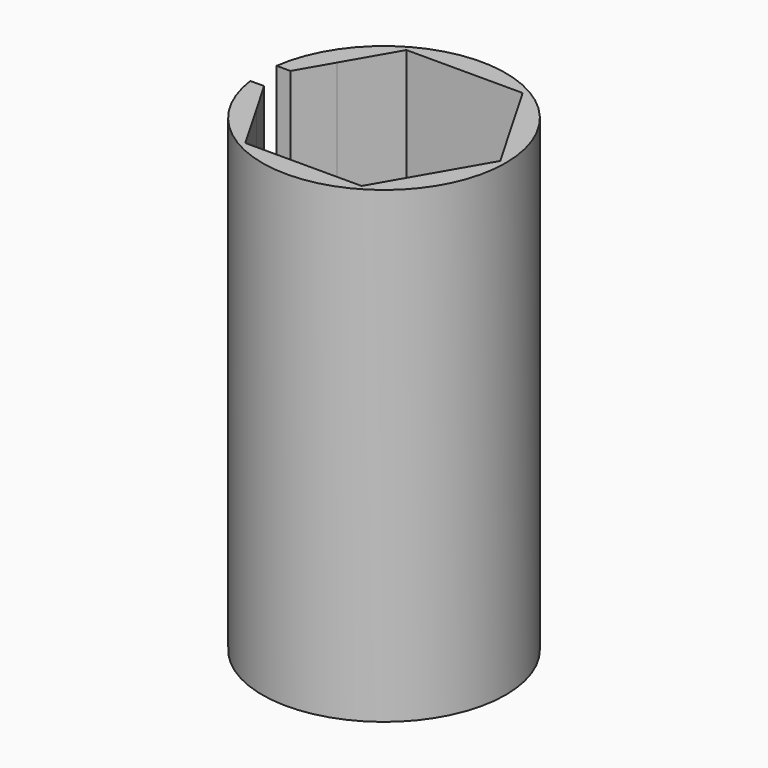
from build123d import *

# Parameters (mm, degrees)
F0_R     = 13
F1_DEPTH = 50
F2_DEPTH = 2
F4_DEPTH = 30
F3_W     = 3.5
F3_H     = 40
F5_DEPTH = 25


with BuildPart() as f1:
    # F0 (on Top) → F1 (new body)
    with BuildSketch(Plane.XY):
        Circle(F0_R)
        Polygon((6.2065153938, 10.75), (9.3097731741, 5.3749998556), (12.4130307876, 0), (9.3097730463, -5.3750000769), (6.2065153938, -10.75), (0, -10.75), (-6.2065153938, -10.75), (-9.3097732188, -5.374999778), (-12.4130307876, 0), (-9.3097730642, 5.3750000458), (-6.2065153938, 10.75), (0, 10.75), align=None, mode=Mode.SUBTRACT)
    extrude(amount=F1_DEPTH)

    # F0 (on Top) → F2 (join)
    with BuildSketch(Plane.XY):
        with BuildLine():
            Line((6.2065153938, -10.75), (9.3097730463, -5.3750000769))
            ThreePointArc((9.3097730463, -5.3750000769), (5.3749999615, -9.3097731129), (0, -10.75))
            Line((0, -10.75), (6.2065153938, -10.75))
        make_face()
        with BuildLine():
            Line((-6.2065153938, -10.75), (0, -10.75))
            ThreePointArc((0, -10.75), (-5.375000111, -9.3097730266), (-9.3097732188, -5.374999778))
            Line((-9.3097732188, -5.374999778), (-6.2065153938, -10.75))
        make_face()
        with BuildLine():
            ThreePointArc((9.3097730463, -5.3750000769), (10.3837026211, -2.7823047777), (10.75, 0))
            ThreePointArc((10.75, 0), (10.3837026542, 2.7823046543), (9.3097731741, 5.3749998556))
            ThreePointArc((9.3097731741, 5.3749998556), (5.3750000722, 9.309773049), (0, 10.75))
            ThreePointArc((0, 10.75), (-5.3749999771, 9.3097731039), (-9.3097730642, 5.3750000458))
            ThreePointArc((-9.3097730642, 5.3750000458), (-10.75, 1.546e-07), (-9.3097732188, -5.374999778))
            ThreePointArc((-9.3097732188, -5.374999778), (-5.375000111, -9.3097730266), (0, -10.75))
            ThreePointArc((0, -10.75), (5.3749999615, -9.3097731129), (9.3097730463, -5.3750000769))
        make_face()
        with BuildLine():
            ThreePointArc((-9.3097730642, 5.3750000458), (-5.3749999771, 9.3097731039), (0, 10.75))
            Line((0, 10.75), (-6.2065153938, 10.75))
            Line((-6.2065153938, 10.75), (-9.3097730642, 5.3750000458))
        make_face()
        with BuildLine():
            ThreePointArc((-9.3097732188, -5.374999778), (-10.75, 1.546e-07), (-9.3097730642, 5.3750000458))
            Line((-9.3097730642, 5.3750000458), (-12.4130307876, 0))
            Line((-12.4130307876, 0), (-9.3097732188, -5.374999778))
        make_face()
        with BuildLine():
            ThreePointArc((0, 10.75), (5.3750000722, 9.309773049), (9.3097731741, 5.3749998556))
            Line((9.3097731741, 5.3749998556), (6.2065153938, 10.75))
            Line((6.2065153938, 10.75), (0, 10.75))
        make_face()
        with BuildLine():
            ThreePointArc((9.3097731741, 5.3749998556), (10.3837026542, 2.7823046543), (10.75, 0))
            ThreePointArc((10.75, 0), (10.3837026211, -2.7823047777), (9.3097730463, -5.3750000769))
            Line((9.3097730463, -5.3750000769), (12.4130307876, 0))
            Line((12.4130307876, 0), (9.3097731741, 5.3749998556))
        make_face()
    extrude(amount=F2_DEPTH)

    # F0 (on Top) → F4 (join)
    with BuildSketch(Plane.XY):
        with BuildLine():
            ThreePointArc((0, 10.75), (5.3750000722, 9.309773049), (9.3097731741, 5.3749998556))
            Line((9.3097731741, 5.3749998556), (6.2065153938, 10.75))
            Line((6.2065153938, 10.75), (0, 10.75))
        make_face()
        with BuildLine():
            ThreePointArc((-9.3097730642, 5.3750000458), (-5.3749999771, 9.3097731039), (0, 10.75))
            Line((0, 10.75), (-6.2065153938, 10.75))
            Line((-6.2065153938, 10.75), (-9.3097730642, 5.3750000458))
        make_face()
        with BuildLine():
            ThreePointArc((-9.3097732188, -5.374999778), (-10.75, 1.546e-07), (-9.3097730642, 5.3750000458))
            Line((-9.3097730642, 5.3750000458), (-12.4130307876, 0))
            Line((-12.4130307876, 0), (-9.3097732188, -5.374999778))
        make_face()
        with BuildLine():
            Line((-6.2065153938, -10.75), (0, -10.75))
            ThreePointArc((0, -10.75), (-5.375000111, -9.3097730266), (-9.3097732188, -5.374999778))
            Line((-9.3097732188, -5.374999778), (-6.2065153938, -10.75))
        make_face()
        with BuildLine():
            Line((6.2065153938, -10.75), (9.3097730463, -5.3750000769))
            ThreePointArc((9.3097730463, -5.3750000769), (5.3749999615, -9.3097731129), (0, -10.75))
            Line((0, -10.75), (6.2065153938, -10.75))
        make_face()
        with BuildLine():
            ThreePointArc((9.3097731741, 5.3749998556), (10.3837026542, 2.7823046543), (10.75, 0))
            ThreePointArc((10.75, 0), (10.3837026211, -2.7823047777), (9.3097730463, -5.3750000769))
            Line((9.3097730463, -5.3750000769), (12.4130307876, 0))
            Line((12.4130307876, 0), (9.3097731741, 5.3749998556))
        make_face()
    extrude(amount=F4_DEPTH)

    # F3 (on Right) → F5 (cut)
    with BuildSketch(Plane.YZ):
        with Locations((0.0118296053, 30.4367649183)):
            Rectangle(F3_W, F3_H)
    extrude(amount=-F5_DEPTH, mode=Mode.SUBTRACT)


solid = f1.part
